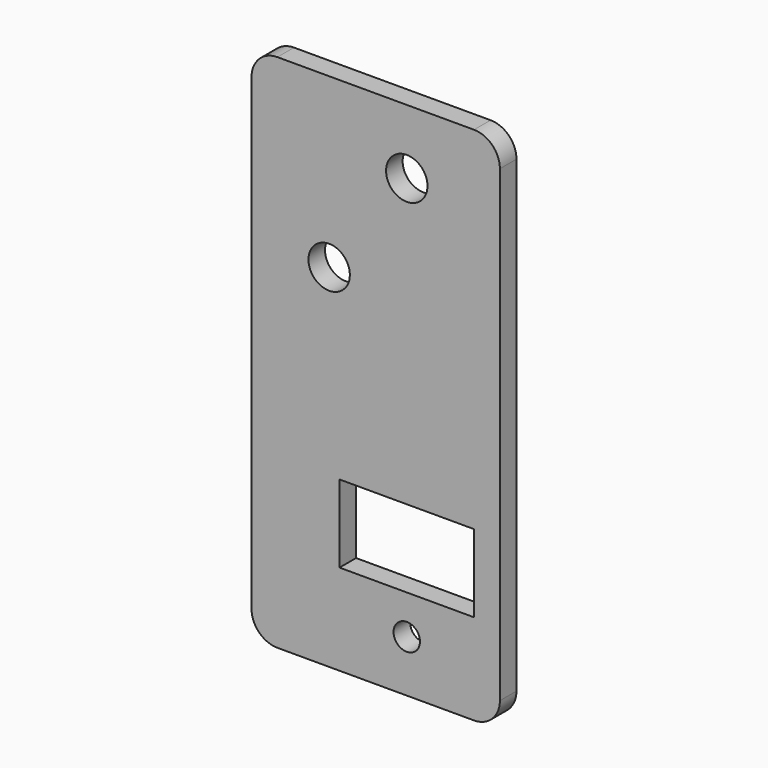
from build123d import *

# Parameters (mm, degrees)
F0_R     = 2.55
F0_W     = 26
F0_H     = 15
F0_R_2   = 4
F1_DEPTH = 4


with BuildPart() as f1:
    # F0 (on Front) → F1 (new body)
    with BuildSketch(Plane.XZ):
        with BuildLine():
            Line((-17.5, 95.5), (-17.5, 5))
            ThreePointArc((-17.5, 5), (-16.035534, 1.464466), (-12.5, 0))
            Line((-12.5, 0), (25.5, 0))
            ThreePointArc((25.5, 0), (29.035534, 1.464466), (30.5, 5))
            Line((30.5, 5), (30.5, 95.5))
            ThreePointArc((30.5, 95.5), (29.035534, 99.035534), (25.5, 100.5))
            Line((25.5, 100.5), (-12.5, 100.5))
            ThreePointArc((-12.5, 100.5), (-16.035534, 99.035534), (-17.5, 95.5))
        make_face()
        with Locations((12.5, 10)):
            Circle(F0_R, mode=Mode.SUBTRACT)
        with Locations((12.5, 25.05)):
            Rectangle(F0_W, F0_H, mode=Mode.SUBTRACT)
        with Locations((-2.5, 68)):
            Circle(F0_R_2, mode=Mode.SUBTRACT)
        with Locations((12.5, 88)):
            Circle(F0_R_2, mode=Mode.SUBTRACT)
    extrude(amount=F1_DEPTH)


solid = f1.part
